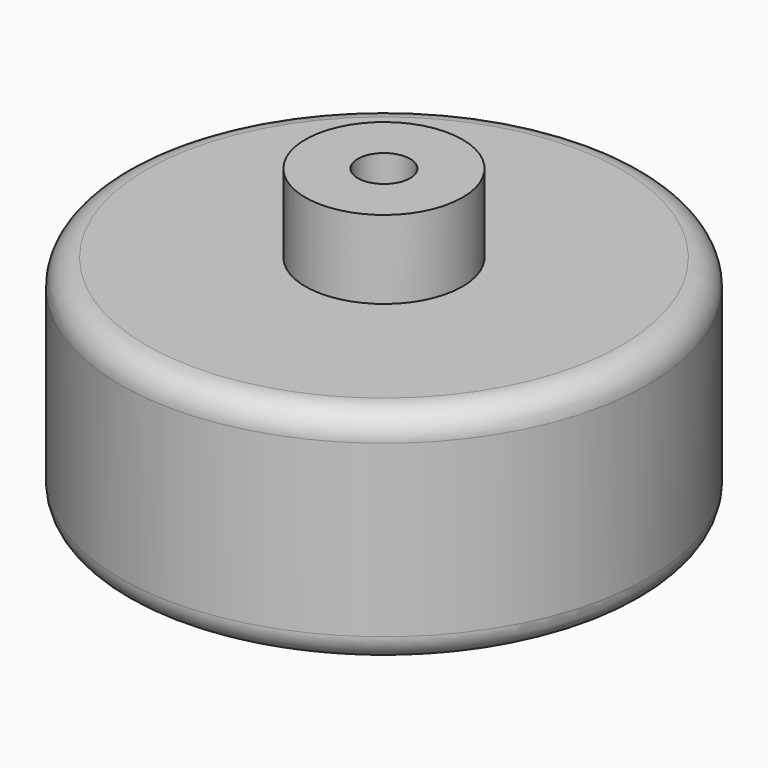
from build123d import *

# Parameters (mm, degrees)
F0_R     = 16
F0_R_2   = 1.5875
F1_DEPTH = 6.75
F2_R     = 4.7625
F2_R_2   = 1.5875
F3_DEPTH = 11.500002
F4_R     = 1.5875


with BuildPart() as f1:
    # F0 (on Top) → F1 (new body, symmetric)
    with BuildSketch(Plane.XY):
        Circle(F0_R)
        Circle(F0_R_2, mode=Mode.SUBTRACT)
    extrude(amount=F1_DEPTH, both=True)

    # F2 (on Top) → F3 (join, symmetric)
    with BuildSketch(Plane.XY):
        Circle(F2_R)
        Circle(F2_R_2, mode=Mode.SUBTRACT)
    extrude(amount=F3_DEPTH, both=True)

    # F4
    f4_edges = [f1.edges().sort_by_distance(p)[0] for p in [
        (-16, 0, 6.75),
        (-16, 0, -6.75),
    ]]
    fillet(f4_edges, radius=F4_R)


solid = f1.part
